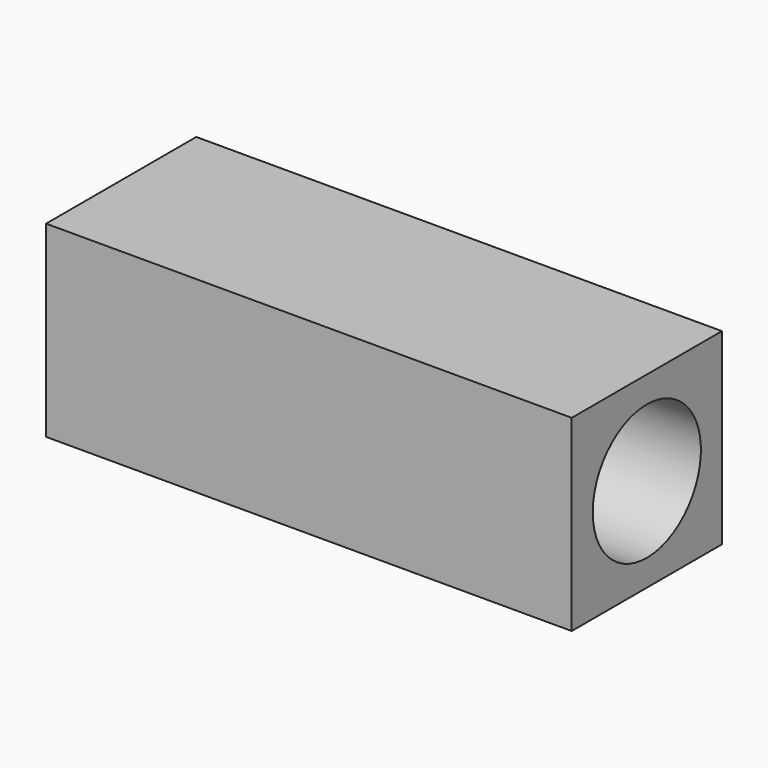
from build123d import *

# Parameters (mm, degrees)
F0_W     = 70
F0_H     = 25
F1_DEPTH = 25
F3_D     = 18


with BuildPart() as f1:
    # F0 (on Front) → F1 (new body)
    with BuildSketch(Plane.XZ):
        with Locations((-36.927967, 17.392462)):
            Rectangle(F0_W, F0_H)
    extrude(amount=F1_DEPTH)

    # F3 (through all)
    with Locations(Plane.YZ.offset(-1.927967)):
        with Locations((-12.5, 17.392462)):
            Hole(F3_D / 2)


solid = f1.part
